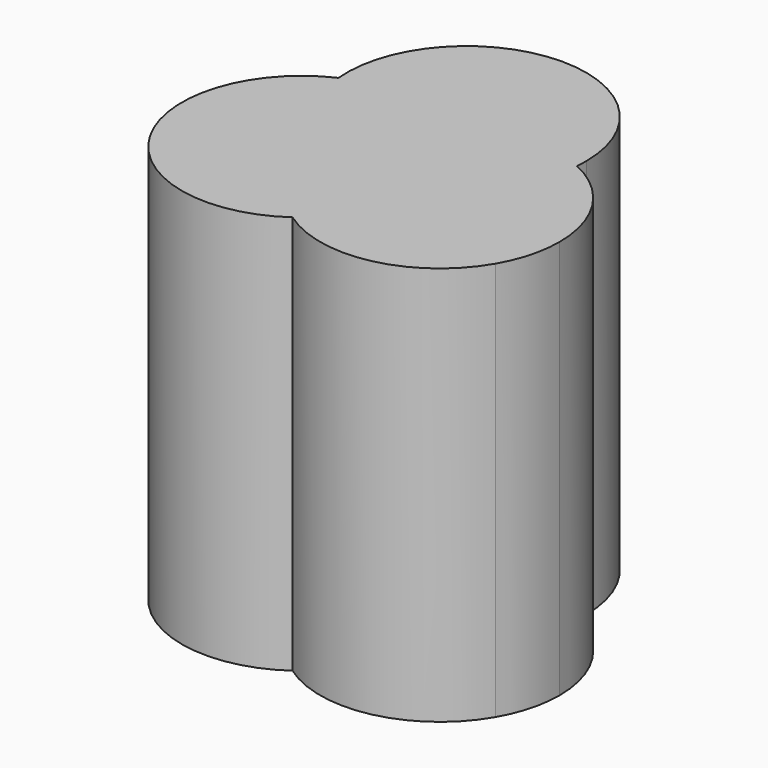
from build123d import *

# Parameters (mm, degrees)
F1_DEPTH = 6


with BuildPart() as f1:
    # F0 (on Top) → F1 (new body)
    with BuildSketch(Plane.XY):
        with BuildLine():
            ThreePointArc((1.8, 1.2), (1.2727922061, 2.4727922061), (0, 3))
            ThreePointArc((0, 3), (-1.3299014134, 2.4129972096), (-1.7924074484, 1.0348469228))
            ThreePointArc((-1.7924074484, 1.0348469228), (-0.9565667293, 1.1981008602), (-0.1392304845, 0.9588457268))
            Line((-0.1392304845, 0.9588457268), (0, 1.2))
            Line((0, 1.2), (0.1392304845, 0.9588457268))
            ThreePointArc((0.1392304845, 0.9588457268), (0.9565667293, 1.1981008602), (1.7924074484, 1.0348469228))
            ThreePointArc((1.7924074484, 1.0348469228), (1.7981008602, 1.1173362447), (1.8, 1.2))
        make_face()
        with BuildLine():
            Line((0, 1.2), (-0.1392304845, 0.9588457268))
            ThreePointArc((-0.1392304845, 0.9588457268), (-0.0685911424, 0.9158691459), (0, 0.8696938457))
            ThreePointArc((0, 0.8696938457), (0.0685911424, 0.9158691459), (0.1392304845, 0.9588457268))
            Line((0.1392304845, 0.9588457268), (0, 1.2))
        make_face()
        with BuildLine():
            Line((0.5196152464, 0.2999999928), (0.1392304845, 0.9588457268))
            ThreePointArc((0.1392304845, 0.9588457268), (0.0685911424, 0.9158691459), (0, 0.8696938457))
            ThreePointArc((0, 0.8696938457), (0.2906709317, 0.6129972066), (0.5196152464, 0.2999999928))
        make_face()
        with BuildLine():
            ThreePointArc((-0.5196152407, 0.3000000027), (-0.6762066199, -0.0547701947), (-0.7531769639, -0.4348469228))
            ThreePointArc((-0.7531769639, -0.4348469228), (-0.3855356915, -0.5582270134), (0, -0.6))
            ThreePointArc((0, -0.6), (0.3855356915, -0.5582270134), (0.7531769639, -0.4348469228))
            ThreePointArc((0.7531769639, -0.4348469228), (0.6762066217, -0.0547702002), (0.5196152464, 0.2999999928))
            ThreePointArc((0.5196152464, 0.2999999928), (0.2906709317, 0.6129972066), (0, 0.8696938457))
            ThreePointArc((0, 0.8696938457), (-0.2906709278, 0.6129972108), (-0.5196152407, 0.3000000027))
        make_face()
        with BuildLine():
            ThreePointArc((0, 0.8696938457), (-0.0685911424, 0.9158691459), (-0.1392304845, 0.9588457268))
            Line((-0.1392304845, 0.9588457268), (-0.5196152407, 0.3000000027))
            ThreePointArc((-0.5196152407, 0.3000000027), (-0.2906709278, 0.6129972108), (0, 0.8696938457))
        make_face()
        with BuildLine():
            ThreePointArc((-0.1392304845, 0.9588457268), (-0.9565667293, 1.1981008602), (-1.7924074484, 1.0348469228))
            ThreePointArc((-1.7924074484, 1.0348469228), (-1.5158691459, 0.2293606579), (-0.9, -0.3588457268))
            Line((-0.9, -0.3588457268), (-0.5196152407, 0.3000000027))
            Line((-0.5196152407, 0.3000000027), (-0.1392304845, 0.9588457268))
        make_face()
        with BuildLine():
            ThreePointArc((0.9, -0.3588457268), (1.5158691459, 0.2293606579), (1.7924074484, 1.0348469228))
            ThreePointArc((1.7924074484, 1.0348469228), (0.9565667293, 1.1981008602), (0.1392304845, 0.9588457268))
            Line((0.1392304845, 0.9588457268), (0.5196152464, 0.2999999928))
            Line((0.5196152464, 0.2999999928), (0.9, -0.3588457268))
        make_face()
        with BuildLine():
            ThreePointArc((0, -2.0696938457), (1.4247662137, -2.3582270051), (2.5980762498, -1.4999999333))
            ThreePointArc((2.5980762498, -1.4999999333), (2.7778969818, -1.065874244), (2.8392304845, -0.6))
            ThreePointArc((2.8392304845, -0.6), (2.5550996304, 0.3706393421), (1.7924074484, 1.0348469228))
            ThreePointArc((1.7924074484, 1.0348469228), (1.5158691459, 0.2293606579), (0.9, -0.3588457268))
            Line((0.9, -0.3588457268), (1.0392304845, -0.6))
            Line((1.0392304845, -0.6), (0.7607695155, -0.6))
            ThreePointArc((0.7607695155, -0.6), (0.5593024166, -1.4274615181), (0, -2.0696938457))
        make_face()
        with BuildLine():
            ThreePointArc((0.7531769639, -0.4348469228), (0.8274615181, -0.3985329012), (0.9, -0.3588457268))
            Line((0.9, -0.3588457268), (0.5196152464, 0.2999999928))
            ThreePointArc((0.5196152464, 0.2999999928), (0.6762066217, -0.0547702002), (0.7531769639, -0.4348469228))
        make_face()
        with BuildLine():
            ThreePointArc((0.7531769639, -0.4348469228), (0.7588703757, -0.5173362447), (0.7607695155, -0.6))
            Line((0.7607695155, -0.6), (1.0392304845, -0.6))
            Line((1.0392304845, -0.6), (0.9, -0.3588457268))
            ThreePointArc((0.9, -0.3588457268), (0.8274615181, -0.3985329012), (0.7531769639, -0.4348469228))
        make_face()
        with BuildLine():
            Line((0, -0.6), (0.7607695155, -0.6))
            ThreePointArc((0.7607695155, -0.6), (0.7588703757, -0.5173362447), (0.7531769639, -0.4348469228))
            ThreePointArc((0.7531769639, -0.4348469228), (0.3855356915, -0.5582270134), (0, -0.6))
        make_face()
        with BuildLine():
            ThreePointArc((-0.7531769639, -0.4348469228), (-0.7588703757, -0.5173362447), (-0.7607695155, -0.6))
            Line((-0.7607695155, -0.6), (0, -0.6))
            ThreePointArc((0, -0.6), (-0.3855356915, -0.5582270134), (-0.7531769639, -0.4348469228))
        make_face()
        with BuildLine():
            ThreePointArc((-0.7531769639, -0.4348469228), (-0.8274615181, -0.3985329012), (-0.9, -0.3588457268))
            Line((-0.9, -0.3588457268), (-1.0392304845, -0.6))
            Line((-1.0392304845, -0.6), (-0.7607695155, -0.6))
            ThreePointArc((-0.7607695155, -0.6), (-0.7588703757, -0.5173362447), (-0.7531769639, -0.4348469228))
        make_face()
        with BuildLine():
            Line((-0.5196152407, 0.3000000027), (-0.9, -0.3588457268))
            ThreePointArc((-0.9, -0.3588457268), (-0.8274615181, -0.3985329012), (-0.7531769639, -0.4348469228))
            ThreePointArc((-0.7531769639, -0.4348469228), (-0.6762066199, -0.0547701947), (-0.5196152407, 0.3000000027))
        make_face()
        with BuildLine():
            ThreePointArc((-0.7607695155, -0.6), (-0.5593024166, -1.4274615181), (0, -2.0696938457))
            ThreePointArc((0, -2.0696938457), (0.5593024166, -1.4274615181), (0.7607695155, -0.6))
            Line((0.7607695155, -0.6), (0, -0.6))
            Line((0, -0.6), (-0.7607695155, -0.6))
        make_face()
        with BuildLine():
            ThreePointArc((-1.7924074484, 1.0348469228), (-2.7546675887, -0.0547701937), (-2.5980762141, -1.4999999953))
            ThreePointArc((-2.5980762141, -1.4999999953), (-1.4247661787, -2.3582270128), (0, -2.0696938457))
            ThreePointArc((0, -2.0696938457), (-0.5593024166, -1.4274615181), (-0.7607695155, -0.6))
            Line((-0.7607695155, -0.6), (-1.0392304845, -0.6))
            Line((-1.0392304845, -0.6), (-0.9, -0.3588457268))
            ThreePointArc((-0.9, -0.3588457268), (-1.5158691459, 0.2293606579), (-1.7924074484, 1.0348469228))
        make_face()
    extrude(amount=F1_DEPTH)


solid = f1.part
